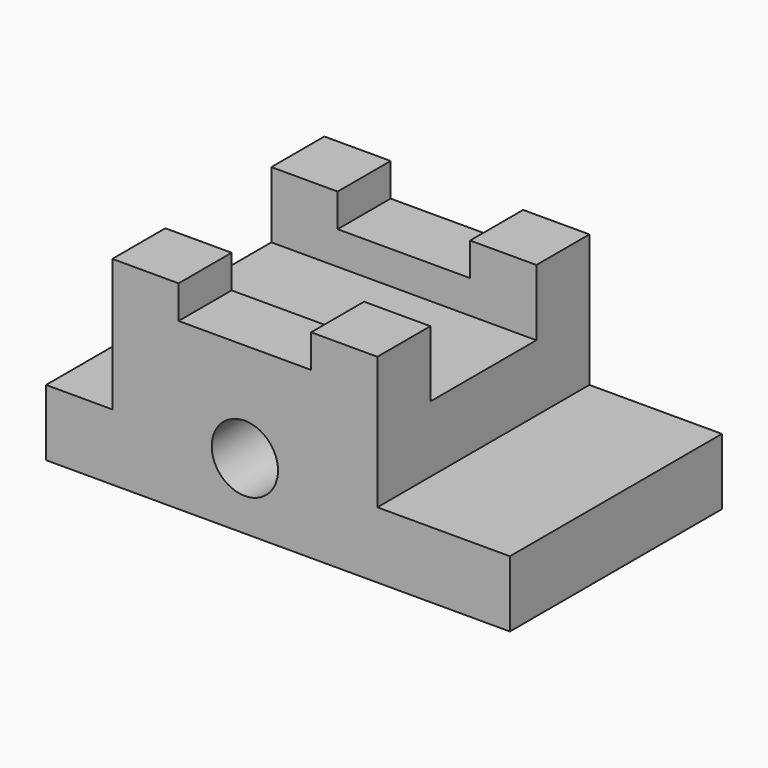
from build123d import *

# Parameters (mm, degrees)
F0_W      = 88.9
F0_H      = 38.1
F1_DEPTH  = 50.8
F2_W      = 12.7
F2_H      = 50.8
F3_DEPTH  = 25.4
F4_W      = 25.4
F4_H      = 50.8
F5_DEPTH  = 25.4
F6_W      = 25.4
F6_H      = 12.7
F7_DEPTH  = 6.35
F8_W      = 25.4
F8_H      = 12.7
F9_DEPTH  = 6.35
F10_W     = 25.4
F10_H     = 12.7
F11_DEPTH = 63.501
F12_R     = 6.35
F13_DEPTH = 50.801


with BuildPart() as f1:
    # F0 (on Front) → F1 (new body)
    with BuildSketch(Plane.XZ):
        with Locations((20.324791, 1.052761)):
            Rectangle(F0_W, F0_H)
    extrude(amount=F1_DEPTH)

    # F2 (on face) → F3 (cut)
    with BuildSketch(Plane.XY.offset(20.102761)):
        with Locations((-17.775209, -25.4)):
            Rectangle(F2_W, F2_H)
    extrude(amount=-F3_DEPTH, mode=Mode.SUBTRACT)

    # F4 (on face) → F5 (cut)
    with BuildSketch(Plane.XY.offset(20.102761)):
        with Locations((52.074791, -25.4)):
            Rectangle(F4_W, F4_H)
    extrude(amount=-F5_DEPTH, mode=Mode.SUBTRACT)

    # F6 (on face) → F7 (cut)
    with BuildSketch(Plane.XY.offset(20.102761)):
        with Locations((13.974791, -44.45)):
            Rectangle(F6_W, F6_H)
    extrude(amount=-F7_DEPTH, mode=Mode.SUBTRACT)

    # F8 (on face) → F9 (cut)
    with BuildSketch(Plane.XY.offset(20.102761)):
        with Locations((13.974791, -6.35)):
            Rectangle(F8_W, F8_H)
    extrude(amount=-F9_DEPTH, mode=Mode.SUBTRACT)

    # F10 (on face) → F11 (cut, through all)
    with BuildSketch(Plane.YZ.offset(39.374791)):
        with Locations((-25.4, 13.752761)):
            Rectangle(F10_W, F10_H)
    extrude(amount=-F11_DEPTH, mode=Mode.SUBTRACT)

    # F12 (on face) → F13 (cut, through all)
    with BuildSketch(Plane.XZ.offset(50.8)):
        with Locations((13.974791, -5.297239)):
            Circle(F12_R)
    extrude(amount=-F13_DEPTH, mode=Mode.SUBTRACT)


solid = f1.part
